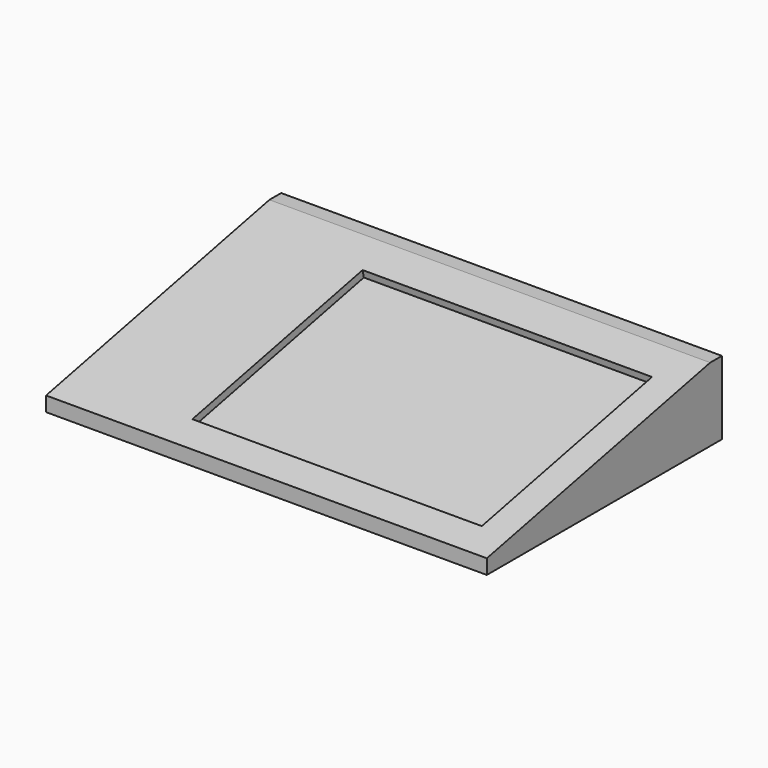
from build123d import *

# Parameters (mm, degrees)
F1_DEPTH = 300
F3_W     = 197
F3_H     = 148
F4_DEPTH = 5
F6_DEPTH = 2.4


with BuildPart() as f1:
    # F0 (on Right) → F1 (new body)
    with BuildSketch(Plane.YZ):
        Polygon((-200, 10), (-200, 0), (0, 0), (0, 50), (-10, 50), align=None)
    extrude(amount=-F1_DEPTH)

    # F3 (on offset) → F4 (cut)
    with BuildSketch(Plane(origin=(0, -10.5039787798, 49.8938992042), x_dir=(1, 0, 0), z_dir=(0, -0.206010481, 0.978549785))):
        with Locations((-118.5, -98.4849737974)):
            Rectangle(F3_W, F3_H)
    extrude(amount=-F4_DEPTH, mode=Mode.SUBTRACT)

    # F5 (on face) → F6 (cut)
    with BuildSketch(Plane(origin=(0, 0, 0), x_dir=(-1, 0, 0), z_dir=(0, 1, 0))):
        with BuildLine():
            Line((277, 5), (293, 5))
            ThreePointArc((293, 5), (294.4142135624, 5.5857864376), (295, 7))
            Line((295, 7), (295, 13))
            ThreePointArc((295, 13), (294.4142135624, 14.4142135624), (293, 15))
            Line((293, 15), (277, 15))
            ThreePointArc((277, 15), (275.5857864376, 14.4142135624), (275, 13))
            Line((275, 13), (275, 7))
            ThreePointArc((275, 7), (275.5857864376, 5.5857864376), (277, 5))
        make_face()
    extrude(amount=-F6_DEPTH, mode=Mode.SUBTRACT)


solid = f1.part
